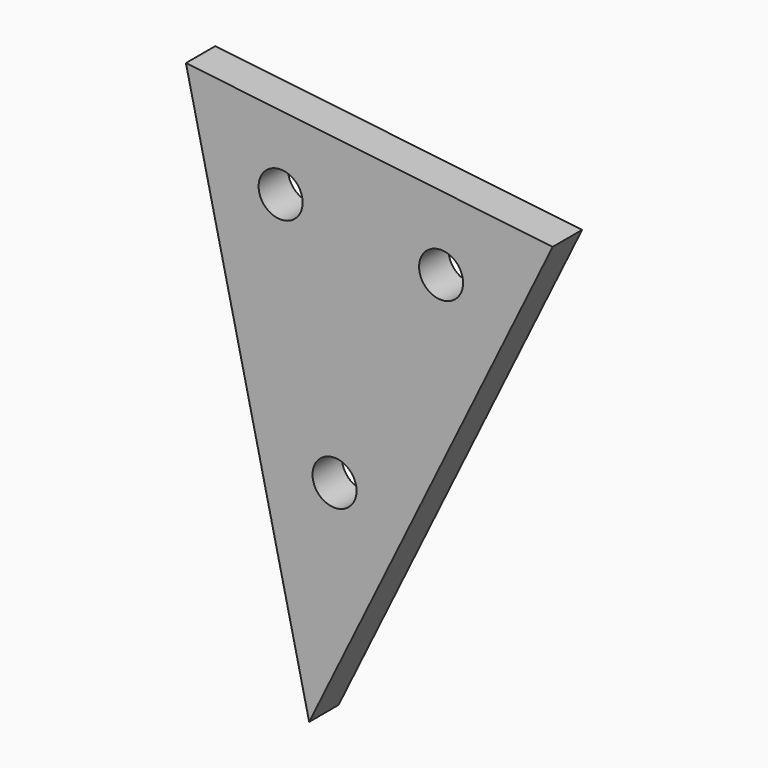
from build123d import *

# Parameters (mm, degrees)
F0_R     = 1.5
F1_DEPTH = 1.25


with BuildPart() as f1:
    # F0 (on Front) → F1 (new body, symmetric)
    with BuildSketch(Plane.XZ):
        Polygon((-6.936875, 37.129661), (-31.911666, 40.025616), (-23.51977, 3.25795), align=None)
        with Locations((-21.79202, 18.158109)):
            Circle(F0_R, mode=Mode.SUBTRACT)
        with Locations((-25.463581, 34.244427)):
            Circle(F0_R, mode=Mode.SUBTRACT)
        with Locations((-14.536794, 32.97741)):
            Circle(F0_R, mode=Mode.SUBTRACT)
    extrude(amount=F1_DEPTH, both=True)


solid = f1.part
